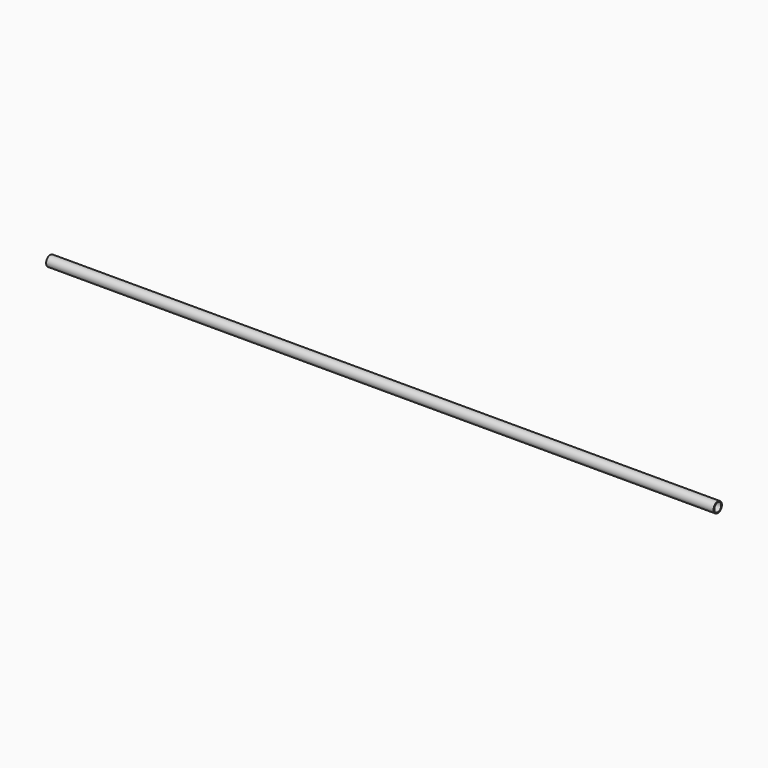
from build123d import *

# Parameters (mm, degrees)
F0_R     = 38.1
F1_DEPTH = 2438.4
F2_T     = -6.35


with BuildPart() as f1:
    # F0 (on Right) → F1 (new body, symmetric)
    with BuildSketch(Plane.YZ):
        with Locations((2438.4, 0)):
            Circle(F0_R)
    extrude(amount=F1_DEPTH, both=True)

    # F2
    f2_openings = [f1.faces().sort_by_distance(p)[0] for p in [
        (2438.4, 2438.4, 0),
        (-2438.4, 2438.4, 0),
    ]]
    offset(amount=F2_T, openings=f2_openings)


solid = f1.part
